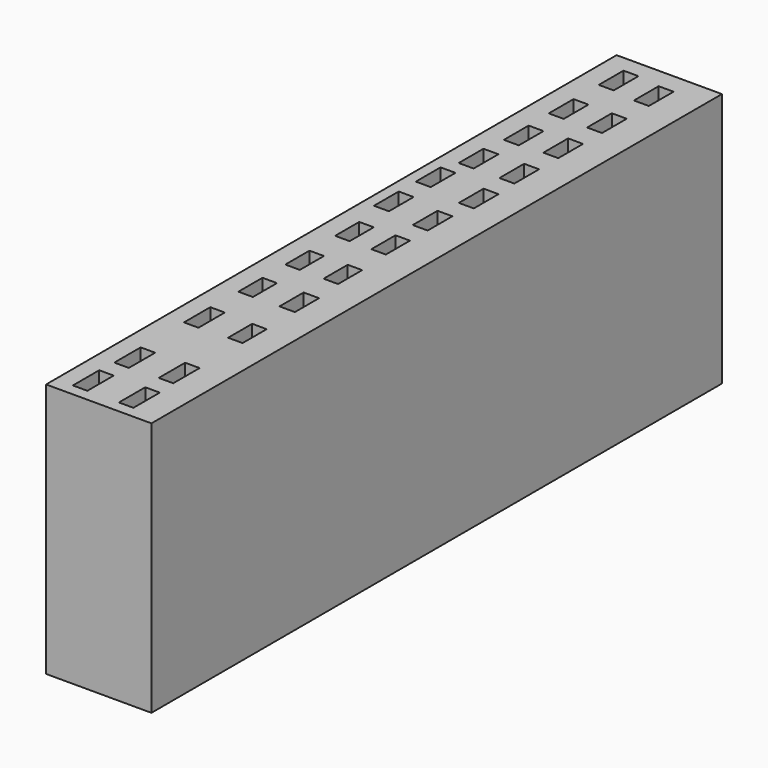
from build123d import *

# Parameters (mm, degrees)
F0_W     = 1.444232
F0_H     = 3.282842
F0_W_2   = 1.444231
F0_H_2   = 3.003372
F0_W_3   = 1.537525
F0_W_4   = 1.486413
F0_H_3   = 3.08099
F0_H_4   = 3.080991
F1_DEPTH = 25.4


with BuildPart() as f1:
    # F0 (on Top) → F1 (new body)
    with BuildSketch(Plane.XY):
        Polygon((-48.942287, 71.072713), (-59.440054, 71.072713), (-59.440054, 0), (-57.754032, 0), (-55.809505, 0), (-52.57833, 0), (-50.541282, 0), (-48.942287, 0), align=None)
        with Locations((-56.983804, 2.812295)):
            Rectangle(F0_W, F0_H, mode=Mode.SUBTRACT)
        with Locations((-56.872925, 7.838232)):
            Rectangle(F0_W, F0_H, mode=Mode.SUBTRACT)
        with Locations((-56.872925, 16.510591)):
            Rectangle(F0_W, F0_H, mode=Mode.SUBTRACT)
        Polygon((-57.521909, 24.464175), (-57.521909, 24.561059), (-56.077678, 24.561059), (-56.077678, 24.464175), (-56.077678, 21.557687), (-57.521909, 21.557687), align=None, mode=Mode.SUBTRACT)
        with Locations((-56.799793, 28.910887)):
            Rectangle(F0_W_2, F0_H_2, mode=Mode.SUBTRACT)
        with Locations((-56.799793, 35.114071)):
            Rectangle(F0_W_2, F0_H_2, mode=Mode.SUBTRACT)
        with Locations((-52.395074, 2.811296)):
            Rectangle(F0_W, F0_H, mode=Mode.SUBTRACT)
        with Locations((-52.558644, 7.978718)):
            Rectangle(F0_W, F0_H, mode=Mode.SUBTRACT)
        with Locations((-52.576316, 16.499392)):
            Rectangle(F0_W_2, F0_H_2, mode=Mode.SUBTRACT)
        with Locations((-52.70471, 23.120777)):
            Rectangle(F0_W_3, F0_H_2, mode=Mode.SUBTRACT)
        with Locations((-52.988848, 28.910887)):
            Rectangle(F0_W, F0_H_2, mode=Mode.SUBTRACT)
        with Locations((-53.189216, 35.114071)):
            Rectangle(F0_W, F0_H_2, mode=Mode.SUBTRACT)
        with Locations((-57.582847, 40.996084)):
            Rectangle(F0_W_4, F0_H_3, mode=Mode.SUBTRACT)
        with Locations((-57.582847, 46.210064)):
            Rectangle(F0_W_4, F0_H_3, mode=Mode.SUBTRACT)
        with Locations((-56.933529, 50.743902)):
            Rectangle(F0_W_4, F0_H_3, mode=Mode.SUBTRACT)
        with Locations((-56.628476, 55.987162)):
            Rectangle(F0_W_4, F0_H_4, mode=Mode.SUBTRACT)
        with Locations((-56.686215, 61.655125)):
            Rectangle(F0_W_4, F0_H_3, mode=Mode.SUBTRACT)
        with Locations((-56.646839, 67.83214)):
            Rectangle(F0_W_4, F0_H_3, mode=Mode.SUBTRACT)
        with Locations((-53.198363, 40.344337)):
            Rectangle(F0_W_4, F0_H_3, mode=Mode.SUBTRACT)
        with Locations((-52.879221, 50.743902)):
            Rectangle(F0_W_4, F0_H_3, mode=Mode.SUBTRACT)
        with Locations((-52.724365, 45.499066)):
            Rectangle(F0_W_4, F0_H_3, mode=Mode.SUBTRACT)
        with Locations((-52.879221, 56.218265)):
            Rectangle(F0_W_4, F0_H_3, mode=Mode.SUBTRACT)
        with Locations((-52.871432, 61.655125)):
            Rectangle(F0_W_4, F0_H_3, mode=Mode.SUBTRACT)
        with Locations((-52.871499, 67.4915)):
            Rectangle(F0_W_4, F0_H_3, mode=Mode.SUBTRACT)
    extrude(amount=F1_DEPTH)


solid = f1.part
